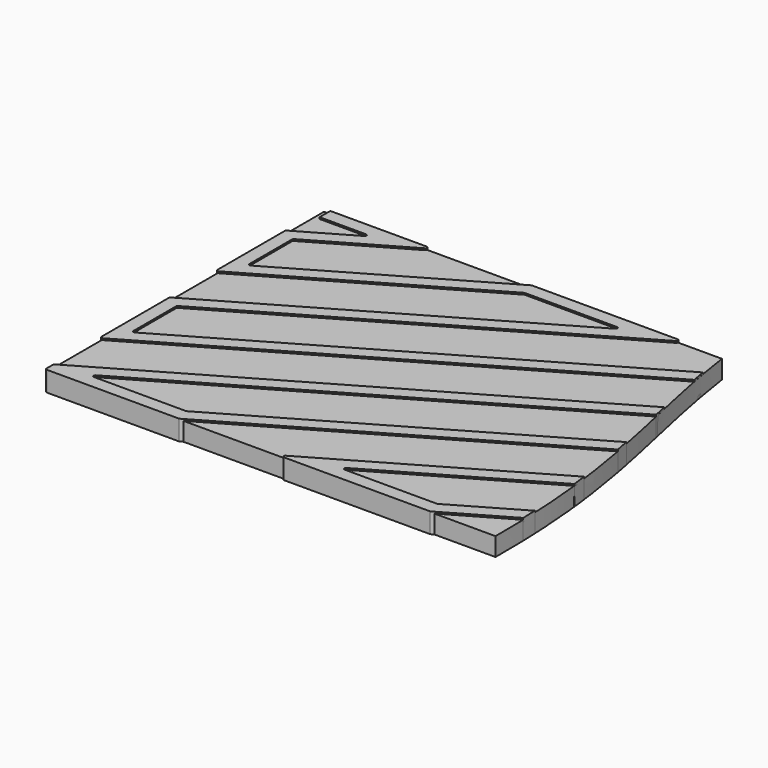
from build123d import *

# Parameters (mm, degrees)
F6_W      = 62.8235205077
F6_H      = 37.2700802982
F7_DEPTH  = 25
F9_W      = 50.6
F9_H      = 20.6
F10_DEPTH = 1.1
F11_R     = 0.1
F13_DEPTH = 25


with BuildPart() as f5:
    # F5: sweep along a path in F2
    with BuildLine(Plane.XY) as f5_path:
        Line((0, 20), (4.6410161514, 20))
        Line((4.6410161514, 20), (0, 17.3205080757))
        Line((0, 17.3205080757), (0, 12.9903810568))
        Line((0, 12.9903810568), (12.1410161514, 20))
        Line((12.1410161514, 20), (19.6410161514, 20))
        Line((19.6410161514, 20), (0, 8.6602540378))
        Line((0, 8.6602540378), (0, 4.3301270189))
        Line((0, 4.3301270189), (27.1410161514, 20))
        Line((27.1410161514, 20), (34.6410161514, 20))
        Line((34.6410161514, 20), (0, 0))
        Line((0, 0), (7.5, 0))
        Line((7.5, 0), (42.1410161514, 20))
        Line((42.1410161514, 20), (49.6410161514, 20))
        Line((49.6410161514, 20), (15, 0))
        Line((15, 0), (22.5, 0))
        Line((22.5, 0), (50, 15.8771324027))
        Line((50, 15.8771324027), (50, 11.5470053838))
        Line((50, 11.5470053838), (30, 0))
        Line((30, 0), (37.5, 0))
        Line((37.5, 0), (50, 7.2168783649))
        Line((50, 7.2168783649), (50, 2.8867513459))
        Line((50, 2.8867513459), (45, 0))
        Line((45, 0), (50, 0))
    # F4 (on line) → F5 (sweep)
    with BuildSketch(Plane.YZ):
        Polygon((19.6, 0), (20, 0), (20.4, 0), (20.4, 1.2), (20, 1.2), (19.6, 1.2), align=None)
    sweep(path=f5_path.line, transition=Transition.RIGHT)


with BuildPart() as f7:
    # F6 (on Top) → F7 (new body)
    with BuildSketch(Plane.XY):
        with Locations((25.02031927, 9.5404535532)):
            Rectangle(F6_W, F6_H)
        Polygon((-0.4, 3.6373066959), (-0.4, 8.8911941455), (-0.4, 20.4), (0, 20.4), (6.1338364744, 20.4), (50.4, 20.4), (50.4, 16.5699527257), (50.4, 11.3160652761), (50.4, -0.4), (37.607179677, -0.4), (28.507179677, -0.4), (-0.4, -0.4), align=None, mode=Mode.SUBTRACT)
    extrude(amount=F7_DEPTH)


with BuildPart() as f5_1:
    add(f5.part)

    # F8: cut F7
    add(f7.part, mode=Mode.SUBTRACT)

    # F11
    f11_edges = [f5_1.edges().sort_by_distance(p)[0] for p in [
        (-0.4, 17.551448, 0.6),
        (3.148196, 19.6, 0.6),
        (6.133836, 20.4, 0.6),
        (0.4, 17.089568, 0.6),
        (0.4, 13.683201, 0.6),
        (-0.4, 12.297561, 0.6),
        (12.248196, 19.6, 0.6),
        (12.033836, 20.4, 0.6),
        (18.148196, 19.6, 0.6),
        (21.133836, 20.4, 0.6),
        (27.033836, 20.4, 0.6),
        (-0.4, 8.891194, 0.6),
        (0.4, 8.429314, 0.6),
        (0.4, 5.022947, 0.6),
        (-0.4, 3.637307, 0.6),
        (27.248196, 19.6, 0.6),
        (33.148196, 19.6, 0.6),
        (36.133836, 20.4, 0.6),
        (42.033836, 20.4, 0.6),
        (-0.4, 0.23094, 0.6),
        (1.49282, 0.4, 0.6),
        (-0.4, -0.4, 0.6),
        (7.39282, 0.4, 0.6),
        (7.60718, -0.4, 0.6),
        (42.248196, 19.6, 0.6),
        (48.148196, 19.6, 0.6),
        (50.4, 20.4, 0.6),
        (50.4, 19.976319, 0.6),
        (50.4, 16.569953, 0.6),
        (49.6, 15.184312, 0.6),
        (49.6, 11.777945, 0.6),
        (50.4, 11.316065, 0.6),
        (28.50718, -0.4, 0.6),
        (31.49282, 0.4, 0.6),
        (22.60718, -0.4, 0.6),
        (13.50718, -0.4, 0.6),
        (16.49282, 0.4, 0.6),
        (37.39282, 0.4, 0.6),
        (22.39282, 0.4, 0.6),
        (50.4, 7.909699, 0.6),
        (49.6, 6.524058, 0.6),
        (37.60718, -0.4, 0.6),
        (43.50718, -0.4, 0.6),
        (50.4, 2.655811, 0.6),
        (46.49282, 0.4, 0.6),
        (49.6, 3.117691, 0.6),
    ]]
    fillet(f11_edges, radius=F11_R)


with BuildPart() as f10:
    # F9 (on Top) → F10 (new body)
    with BuildSketch(Plane.XY):
        with Locations((25, 10)):
            Rectangle(F9_W, F9_H)
    extrude(amount=F10_DEPTH)


with BuildPart() as f13:
    # F12 (on Top) → F13 (new body)
    with BuildSketch(Plane.XY):
        with BuildLine():
            Line((50.3, 20.4), (42.0606313936, 20.4))
            Line((42.0606313936, 20.4), (33.2614853978, 20.4))
            Line((33.2614853978, 20.4), (23.4711933881, 20.4))
            add(Edge.make_bspline(
                [(23.4711933881, 20.4), (24.4582686573, 13.4666666667), (26.5200901777, 9.0020764619), (26.4324191958, -0.4)],
                knots=[0, 0, 0, 0, 21.0097324658, 21.0097324658, 21.0097324658, 21.0097324658], degree=3))
            Line((26.4324191958, -0.4), (33.2614853978, -0.4))
            Line((33.2614853978, -0.4), (41.2410050631, -0.4))
            Line((41.2410050631, -0.4), (43.8803847577, -0.4))
            Line((43.8803847577, -0.4), (50, -0.4))
            Line((50, -0.4), (50.4, -0.4))
            Line((50.4, -0.4), (50.4, 11.373800303))
            Line((50.4, 11.373800303), (50.4, 16.396747645))
            Line((50.4, 16.396747645), (50.4, 20.4))
            Line((50.4, 20.4), (50.3, 20.4))
        make_face()
    extrude(amount=F13_DEPTH)


with BuildPart() as f10_1:
    add(f10.part)

    # F14: cut F13
    add(f13.part, mode=Mode.SUBTRACT)


with BuildPart() as f5_2:
    add(f5_1.part)

    # F14: cut F13
    add(f13.part, mode=Mode.SUBTRACT)


solid = Compound([f10_1.part, f5_2.part])
